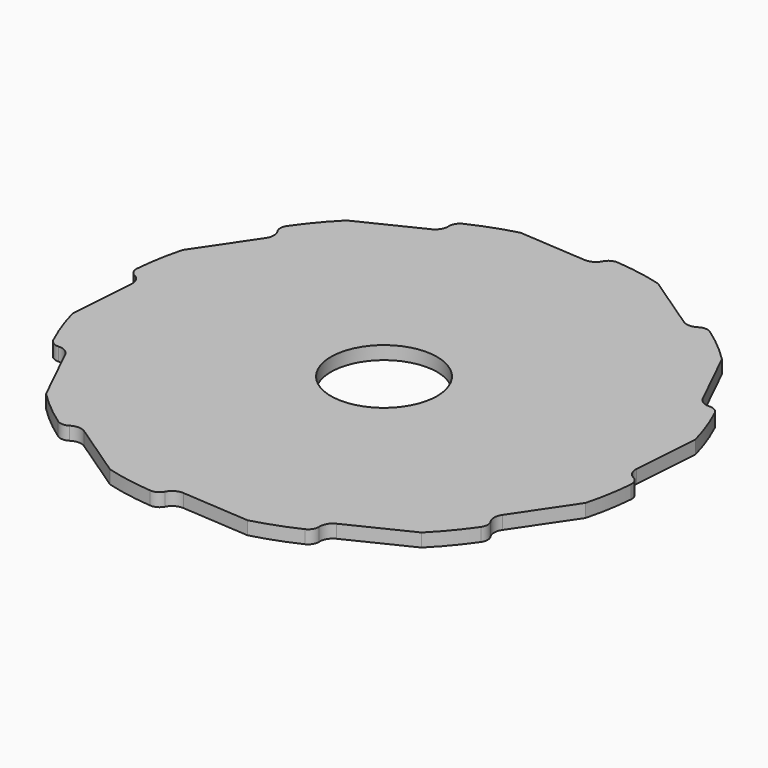
from build123d import *

# Parameters (mm, degrees)
F0_R     = 127
F0_R_2   = 25.4
F1_DEPTH = 6.35
F3_DEPTH = 6.351
F4_R     = 5.08


with BuildPart() as f1:
    # F0 (on Top) → F1 (new body)
    with BuildSketch(Plane.XY):
        Circle(F0_R)
        Circle(F0_R_2, mode=Mode.SUBTRACT)
    extrude(amount=F1_DEPTH)

    # F2 (on face) → F3 (cut, through all)
    with BuildSketch(Plane.XY.offset(6.35)):
        with BuildLine():
            ThreePointArc((-0.4417075975, 120.4113812744), (4.3658298911, 122.1349231885), (6.349286539, 126.8411863727))
            ThreePointArc((6.349286539, 126.8411863727), (-13.4231750663, 126.288631203), (-32.870018728, 122.6725799387))
            Line((-32.870018728, 122.6725799387), (-0.4417075975, 120.4113812744))
        make_face()
        with BuildLine():
            ThreePointArc((-60.5882206377, 104.0584612897), (-57.286542, 107.954861116), (-57.9219497477, 113.0223329145))
            ThreePointArc((-57.9219497477, 113.0223329145), (-74.7691262084, 102.6575752978), (-89.8025612107, 89.8025612107))
            Line((-89.8025612107, 89.8025612107), (-60.5882206377, 104.0584612897))
        make_face()
        with BuildLine():
            ThreePointArc((-104.5001688872, 59.8231606367), (-103.5890312249, 64.8483811885), (-106.6730463754, 68.9192366251))
            ThreePointArc((-106.6730463754, 68.9192366251), (-116.0807503642, 51.5195049947), (-122.6725799387, 32.870018728))
            Line((-122.6725799387, 32.870018728), (-104.5001688872, 59.8231606367))
        make_face()
        with BuildLine():
            ThreePointArc((-120.4113812744, -0.4417075975), (-122.1349231885, 4.3658298911), (-126.8411863727, 6.349286539))
            ThreePointArc((-126.8411863727, 6.349286539), (-126.288631203, -13.4231750663), (-122.6725799387, -32.870018728))
            Line((-122.6725799387, -32.870018728), (-120.4113812744, -0.4417075975))
        make_face()
        with BuildLine():
            ThreePointArc((-104.0584612897, -60.5882206377), (-107.954861116, -57.286542), (-113.0223329145, -57.9219497477))
            ThreePointArc((-113.0223329145, -57.9219497477), (-102.6575752978, -74.7691262084), (-89.8025612107, -89.8025612107))
            Line((-89.8025612107, -89.8025612107), (-104.0584612897, -60.5882206377))
        make_face()
        with BuildLine():
            ThreePointArc((-59.8231606367, -104.5001688872), (-64.8483811885, -103.5890312249), (-68.9192366251, -106.6730463754))
            ThreePointArc((-68.9192366251, -106.6730463754), (-51.5195049947, -116.0807503642), (-32.870018728, -122.6725799387))
            Line((-32.870018728, -122.6725799387), (-59.8231606367, -104.5001688872))
        make_face()
        with BuildLine():
            ThreePointArc((0.4417075975, -120.4113812744), (-4.3658298911, -122.1349231885), (-6.349286539, -126.8411863727))
            ThreePointArc((-6.349286539, -126.8411863727), (13.4231750663, -126.288631203), (32.870018728, -122.6725799387))
            Line((32.870018728, -122.6725799387), (0.4417075975, -120.4113812744))
        make_face()
        with BuildLine():
            ThreePointArc((60.5882206377, -104.0584612897), (57.286542, -107.954861116), (57.9219497477, -113.0223329145))
            ThreePointArc((57.9219497477, -113.0223329145), (74.7691262084, -102.6575752978), (89.8025612107, -89.8025612107))
            Line((89.8025612107, -89.8025612107), (60.5882206377, -104.0584612897))
        make_face()
        with BuildLine():
            ThreePointArc((104.5001688872, -59.8231606367), (103.5890312249, -64.8483811885), (106.6730463754, -68.9192366251))
            ThreePointArc((106.6730463754, -68.9192366251), (116.0807503642, -51.5195049947), (122.6725799387, -32.870018728))
            Line((122.6725799387, -32.870018728), (104.5001688872, -59.8231606367))
        make_face()
        with BuildLine():
            ThreePointArc((120.4113812744, 0.4417075975), (122.1349231885, -4.3658298911), (126.8411863727, -6.349286539))
            ThreePointArc((126.8411863727, -6.349286539), (126.288631203, 13.4231750663), (122.6725799387, 32.870018728))
            Line((122.6725799387, 32.870018728), (120.4113812744, 0.4417075975))
        make_face()
        with BuildLine():
            ThreePointArc((104.0584612897, 60.5882206377), (107.954861116, 57.286542), (113.0223329145, 57.9219497477))
            ThreePointArc((113.0223329145, 57.9219497477), (102.6575752978, 74.7691262084), (89.8025612107, 89.8025612107))
            Line((89.8025612107, 89.8025612107), (104.0584612897, 60.5882206377))
        make_face()
        with BuildLine():
            ThreePointArc((59.8231606367, 104.5001688872), (64.8483811885, 103.5890312249), (68.9192366251, 106.6730463754))
            ThreePointArc((68.9192366251, 106.6730463754), (51.5195049947, 116.0807503642), (32.870018728, 122.6725799387))
            Line((32.870018728, 122.6725799387), (59.8231606367, 104.5001688872))
        make_face()
    extrude(amount=-F3_DEPTH, mode=Mode.SUBTRACT)

    # F4
    f4_edges = [f1.edges().sort_by_distance(p)[0] for p in [
        (6.349287, 126.841186, 3.175),
        (68.919237, 106.673046, 3.175),
        (113.022333, 57.92195, 3.175),
        (126.841186, -6.349287, 3.175),
        (106.673046, -68.919237, 3.175),
        (-57.92195, 113.022333, 3.175),
        (-106.673046, 68.919237, 3.175),
        (-126.841186, 6.349287, 3.175),
        (-113.022333, -57.92195, 3.175),
        (-68.919237, -106.673046, 3.175),
        (-6.349287, -126.841186, 3.175),
        (57.92195, -113.022333, 3.175),
    ]]
    fillet(f4_edges, radius=F4_R)


solid = f1.part
